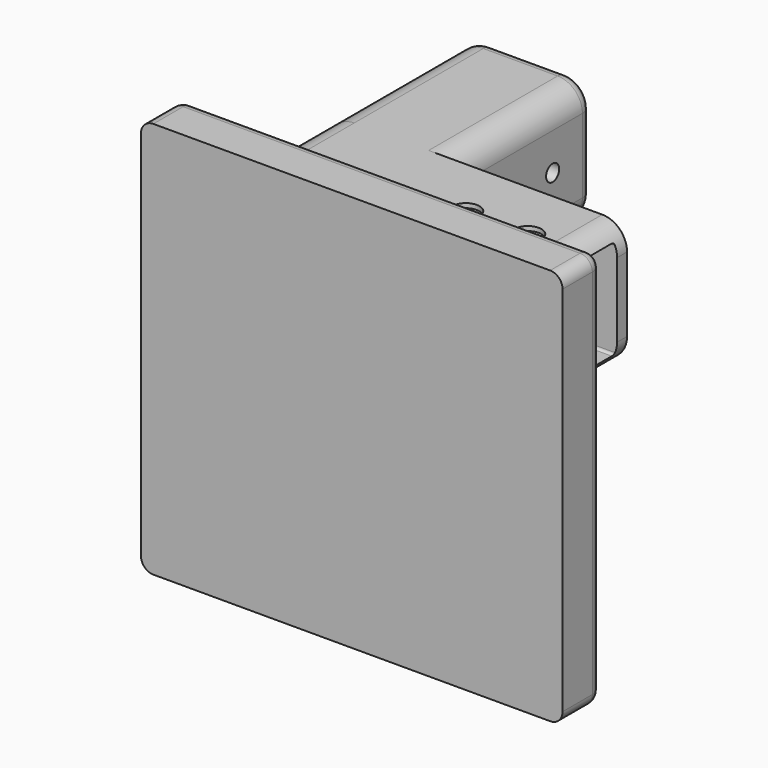
from build123d import *

# Parameters (mm, degrees)
PAD_DEPTH           = 50
SKETCH001_W         = 170
SKETCH001_H         = 160
PAD001_DEPTH        = 20
FILLET_R            = 5
PAD002_DEPTH        = 70
FILLET001_R         = 5
POCKET_DEPTH        = 70
POCKET001_DEPTH     = 70
POCKET002_DEPTH     = 70
HOLE_D              = 6.6
HOLE_CBORE_D        = 11
HOLE_CBORE_DEPTH    = 1.8
HOLE001_D           = 6.6
HOLE001_CBORE_D     = 11
HOLE001_CBORE_DEPTH = 1.8
HOLE002_D           = 6.6
HOLE002_CBORE_D     = 11
HOLE002_CBORE_DEPTH = 1.8


with BuildPart() as part:
    # Sketch → Pad (new body)
    with BuildSketch(Plane.XZ):
        with BuildLine():
            Line((0, 0), (0, 40))
            ThreePointArc((10, 50), (2.9289321881, 47.0710678119), (0, 40))
            Line((10, 50), (110, 50))
            ThreePointArc((120, 39.9999996097), (117.0710679499, 47.0710676739), (110, 50))
            Line((120, 39.9999996097), (119.9999988291, 9.9999996097))
            ThreePointArc((109.999957026, 1e-10), (117.0710517233, 2.9289172705), (119.9999988291, 9.9999996097))
            Line((109.999957026, 1e-10), (60, 0))
            ThreePointArc((60, 0), (52.9289320942, -2.9289322821), (50, -10.0000002657))
            Line((50, -10.0000002657), (50, -59.9999999242))
            ThreePointArc((40, -69.9999999242), (47.0710678119, -67.0710677361), (50, -59.9999999242))
            Line((40, -69.9999999242), (10, -69.9999999242))
            ThreePointArc((0, -60), (2.9289322149, -67.0710677629), (10, -69.9999999242))
            Line((0, -60), (0, 0))
        make_face()
    extrude(amount=PAD_DEPTH)

    # Sketch001 → Pad001 (join)
    with BuildSketch(Plane.XZ.offset(50)):
        with Locations((65, -10)):
            Rectangle(SKETCH001_W, SKETCH001_H)
    extrude(amount=PAD001_DEPTH)

    # Fillet
    fillet_edges = [part.edges().sort_by_distance(p)[0] for p in [
        (-20, -60, 70),
        (-20, -60, -90),
        (150, -60, 70),
        (65, -50, 70),
        (-20, -50, -10),
        (150, -50, -10),
        (150, -60, -90),
        (65, -50, -90),
    ]]
    fillet(fillet_edges, radius=FILLET_R)

    # Sketch002 → Pad002 (join)
    with BuildSketch(Plane(origin=(0, 0, 0), x_dir=(1, 0, 0), z_dir=(0, 1, 0))):
        with BuildLine():
            ThreePointArc((0, -40.0000140922), (2.9289421532, -47.0710777769), (10.0000140931, -50))
            Line((10.0000140931, -50), (40, -50))
            ThreePointArc((40, -50), (47.0710678169, -47.0710678069), (50, -39.9999999859))
            Line((50, -9.9999998015), (50, -39.9999999859))
            ThreePointArc((50, -9.9999998015), (47.0710677417, -2.928932118), (40, 0))
            Line((10, -1e-10), (40, 0))
            ThreePointArc((10, -1e-10), (2.9288998762, -2.9289222234), (-4.22766e-05, -10.0000140922))
            Line((0, -40.0000140922), (-4.22766e-05, -10.0000140922))
        make_face()
    extrude(amount=PAD002_DEPTH)

    # Fillet001
    fillet001_edges = [part.edges().sort_by_distance(p)[0] for p in [
        (47.071068, 70, 2.928932),
    ]]
    fillet(fillet001_edges, radius=FILLET001_R)

    # Sketch003 → Pocket (cut)
    with BuildSketch(Plane(origin=(119.9999984388, 0, -4.6837e-06), x_dir=(3.9e-08, 0, 1), z_dir=(1, 0, -3.9e-08))):
        with BuildLine():
            Line((6.0004431316, 5), (44.0000020269, 5))
            ThreePointArc((44.0000020269, 5), (44.7071074978, 5.2928939354), (45, 6))
            Line((45, 6), (45, 44))
            ThreePointArc((45, 44), (44.7071067529, 44.7071067294), (44, 44.9999999199))
            Line((44, 44.9999999199), (6, 44.9999999199))
            ThreePointArc((6, 44.9999999199), (5.292893205, 44.7071066873), (5, 43.999999881))
            Line((5, 43.999999881), (5, 5.999999881))
            ThreePointArc((5, 5.999999881), (5.2930499143, 5.2927364599), (6.0004431316, 5))
        make_face()
    extrude(amount=-POCKET_DEPTH, mode=Mode.SUBTRACT)

    # Sketch004 → Pocket001 (cut)
    with BuildSketch(Plane(origin=(0, 0, -69.9999999242), x_dir=(1, 0, 0), z_dir=(0, 0, -1))):
        with BuildLine():
            Line((5.9999900445, 5), (43.9999900445, 5))
            ThreePointArc((43.9999900445, 5), (44.7071032614, 5.292889699), (45, 6))
            Line((45, 6), (45, 43.9999998885))
            ThreePointArc((45, 43.9999998885), (44.7071068206, 44.7071067418), (44, 45))
            Line((44, 45), (6, 45))
            ThreePointArc((6, 45), (5.2928932188, 44.7071067812), (5, 44))
            Line((5, 44), (5, 6))
            ThreePointArc((5, 6), (5.292889699, 5.2928967386), (5.9999900445, 5))
        make_face()
    extrude(amount=-POCKET001_DEPTH, mode=Mode.SUBTRACT)

    # Sketch005 → Pocket002 (cut)
    with BuildSketch(Plane(origin=(0, 70, 0), x_dir=(1, 0, 0), z_dir=(0, 1, 0))):
        with BuildLine():
            Line((6, -4.9999917709), (44, -4.9999917709))
            ThreePointArc((45, -6), (44.7071096906, -5.2928878992), (44, -4.9999917709))
            Line((45, -6), (45, -44))
            ThreePointArc((44, -45), (44.7071067812, -44.7071067812), (45, -44))
            Line((44, -45), (6, -45))
            ThreePointArc((5, -44), (5.2928932224, -44.7071067747), (6, -44.9999999899))
            Line((5, -44), (5, -6))
            ThreePointArc((6, -4.9999917709), (5.2928903094, -5.2928878992), (5, -6))
        make_face()
    extrude(amount=-POCKET002_DEPTH, mode=Mode.SUBTRACT)

    # Hole (through all)
    with Locations(Plane(origin=(0, 0, 50), x_dir=(-1, 0, 0), z_dir=(0, 0, 1))):
        with Locations((-75, 25), (-100, 25)):
            CounterBoreHole(HOLE_D / 2, HOLE_CBORE_D / 2, HOLE_CBORE_DEPTH)

    # Hole001 (through all)
    with Locations(Plane(origin=(0, 0, 0), x_dir=(0, 0, -1), z_dir=(-1, 0, 0))):
        with Locations((50, 25), (25, 25)):
            CounterBoreHole(HOLE001_D / 2, HOLE001_CBORE_D / 2, HOLE001_CBORE_DEPTH)

    # Hole002 (through all)
    with Locations(Plane(origin=(-5.63689e-05, 0, 1e-10), x_dir=(-1.4092e-06, 0, -1), z_dir=(-1, 0, 1.4092e-06))):
        with Locations((-25, -25), (-25, -50)):
            CounterBoreHole(HOLE002_D / 2, HOLE002_CBORE_D / 2, HOLE002_CBORE_DEPTH)


solid = part.part
